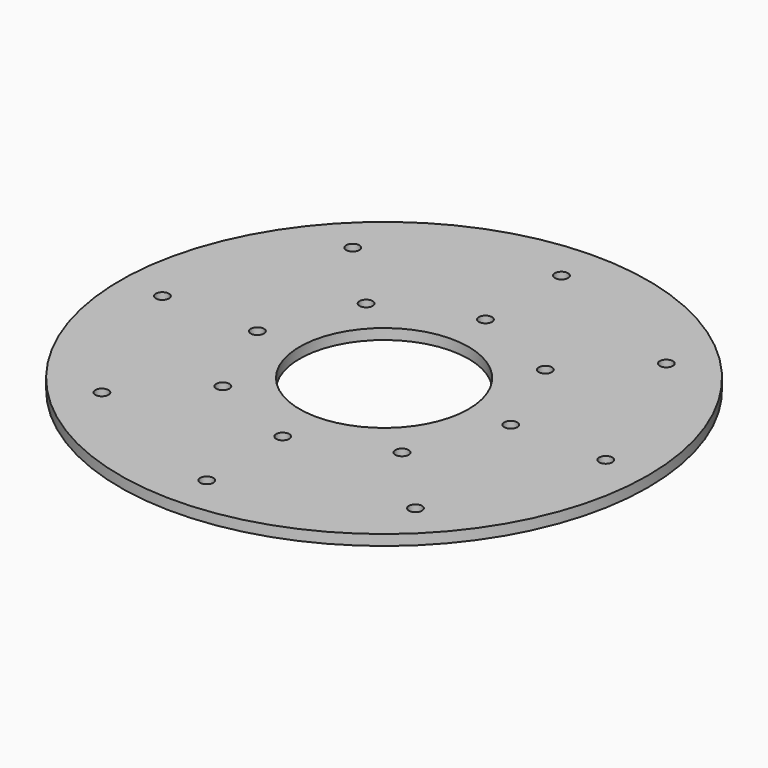
from build123d import *

# Parameters (mm, degrees)
SKETCH_R           = 50
SKETCH_R_2         = 16
PAD_DEPTH          = 2
SKETCH001_R        = 1.25
POCKET_DEPTH       = 282.871995
POCKET_DEPTH_BACK  = 284.871995
POLARPATTERN_COUNT = 8


with BuildPart() as part:
    # Sketch → Pad (new body)
    with BuildSketch(Plane.XY):
        Circle(SKETCH_R)
        Circle(SKETCH_R_2, mode=Mode.SUBTRACT)
    extrude(amount=PAD_DEPTH)

    # Sketch001 → Pocket (cut, two sides)
    with BuildSketch(Plane.XY) as pocket_sk:
        with Locations((24, 0)):
            Circle(SKETCH001_R)
        with Locations((42, 0)):
            Circle(SKETCH001_R)
    pocket = extrude(amount=-POCKET_DEPTH, mode=Mode.SUBTRACT) + extrude(pocket_sk.sketch, amount=POCKET_DEPTH_BACK, mode=Mode.SUBTRACT)

    # PolarPattern: Pocket ×8 about axis
    polarpattern_axis = Axis((0, 0, 0), (0, 0, 1))
    for i in range(1, POLARPATTERN_COUNT):
        add(pocket.rotate(polarpattern_axis, i * 360 / POLARPATTERN_COUNT), mode=Mode.SUBTRACT)


solid = part.part
